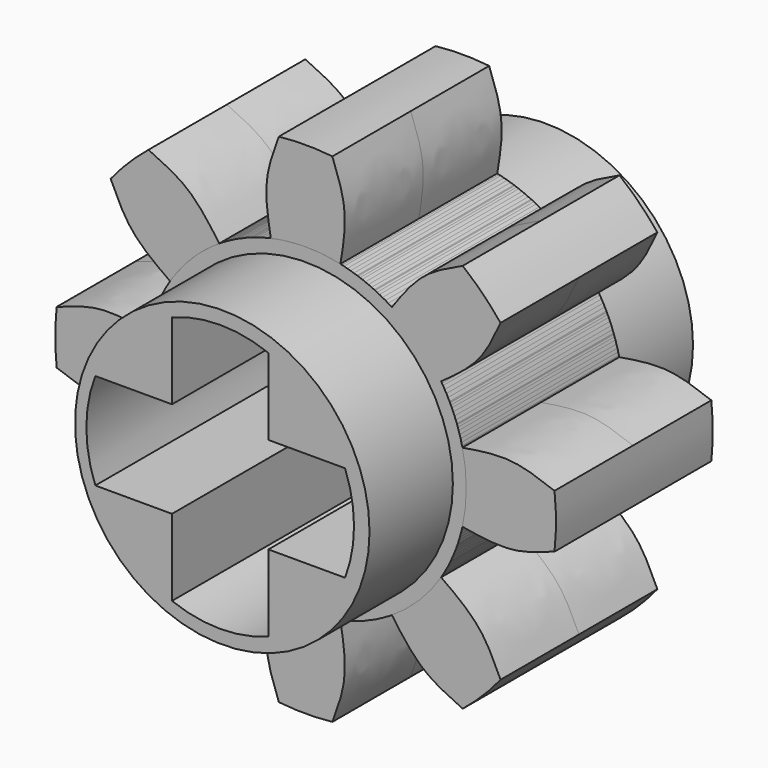
from build123d import *

# Parameters (mm, degrees)
F0_R     = 2.75
F1_DEPTH = 1.83
F2_COUNT = 8
F3_DEPTH = 3.775
F5_DEPTH = 7.551


with BuildPart() as f1:
    # F0 (on Front) → F1 (new body, symmetric)
    with BuildSketch(Plane.XZ):
        with BuildLine():
            add(Edge.make_bspline(
                [(0.5074052077, 1.7851034492), (0.6066605904, 1.5199564591), (0.8092476179, 0.97877331), (0.7086937606, 0.3740835981), (0.6574052077, 0.0656552486)],
                knots=[0, 0, 0, 0, 0.489939479, 1, 1, 1, 1], degree=3))
            ThreePointArc((0.5074052077, 1.7851034492), (0.0074052077, 1.8119183195), (-0.4925947923, 1.7851034492))
            add(Edge.make_bspline(
                [(-0.4925947923, 1.7851034492), (-0.591850175, 1.5199564591), (-0.7944372024, 0.97877331), (-0.6938833451, 0.3740835981), (-0.6425947923, 0.0656552486)],
                knots=[0, 0, 0, 0, 0.489939479, 1, 1, 1, 1], degree=3))
            ThreePointArc((-0.6425947923, 0.0656552486), (0.0074052077, 0.1369183195), (0.6574052077, 0.0656552486))
        make_face()
        with BuildLine():
            ThreePointArc((3.0074052077, -2.8630816805), (2.3472769991, -0.985583345), (0.6574052077, 0.0656552486))
            ThreePointArc((0.6574052077, 0.0656552486), (0.0074052077, 0.1369183195), (-0.6425947923, 0.0656552486))
            ThreePointArc((-0.6425947923, 0.0656552486), (-1.8700931278, -5.2029534719), (3.0074052077, -2.8630816805))
        make_face()
        with Locations((0.0074052077, -2.8630816805)):
            Circle(F0_R, mode=Mode.SUBTRACT)
    extrude(amount=F1_DEPTH, both=True)


with BuildPart() as f2_1:
    # F2: instance of F1
    add(f1.part.rotate(Axis((0.0074052077, 0, -2.8630816805), (0, -1, 0)), 1 * 360 / F2_COUNT))


with BuildPart() as f2_2:
    # F2: instance of F1
    add(f1.part.rotate(Axis((0.0074052077, 0, -2.8630816805), (0, -1, 0)), 2 * 360 / F2_COUNT))


with BuildPart() as f2_3:
    # F2: instance of F1
    add(f1.part.rotate(Axis((0.0074052077, 0, -2.8630816805), (0, -1, 0)), 3 * 360 / F2_COUNT))


with BuildPart() as f2_4:
    # F2: instance of F1
    add(f1.part.rotate(Axis((0.0074052077, 0, -2.8630816805), (0, -1, 0)), 4 * 360 / F2_COUNT))


with BuildPart() as f2_5:
    # F2: instance of F1
    add(f1.part.rotate(Axis((0.0074052077, 0, -2.8630816805), (0, -1, 0)), 5 * 360 / F2_COUNT))


with BuildPart() as f2_6:
    # F2: instance of F1
    add(f1.part.rotate(Axis((0.0074052077, 0, -2.8630816805), (0, -1, 0)), 6 * 360 / F2_COUNT))


with BuildPart() as f2_7:
    # F2: instance of F1
    add(f1.part.rotate(Axis((0.0074052077, 0, -2.8630816805), (0, -1, 0)), 7 * 360 / F2_COUNT))


with BuildPart() as f3:
    # F0 (on Front) → F3 (new body, symmetric)
    with BuildSketch(Plane.XZ):
        with Locations((0.0074052077, -2.8630816805)):
            Circle(F0_R)
    extrude(amount=F3_DEPTH, both=True)

    # F4 (on face) → F5 (cut, through all)
    with BuildSketch(Plane.XZ.offset(3.775)):
        with BuildLine():
            ThreePointArc((2.299921781, -3.767830224), (2.4253324656, -3.3255747812), (2.4676129211, -2.867830224))
            ThreePointArc((2.4676129211, -2.867830224), (2.4253324656, -2.4100856669), (2.299921781, -1.967830224))
            Line((2.299921781, -1.967830224), (0.8686129211, -1.967830224))
            Line((0.8686129211, -1.967830224), (0.8686129211, -0.5365213642))
            ThreePointArc((0.8686129211, -0.5365213642), (-0.0313870789, -0.368830224), (-0.9313870789, -0.5365213642))
            Line((-0.9313870789, -0.5365213642), (-0.9313870789, -1.967830224))
            Line((-0.9313870789, -1.967830224), (-2.3626959387, -1.967830224))
            ThreePointArc((-2.3626959387, -1.967830224), (-2.5303870789, -2.867830224), (-2.3626959387, -3.767830224))
            Line((-2.3626959387, -3.767830224), (-0.9313870789, -3.767830224))
            Line((-0.9313870789, -3.767830224), (-0.9313870789, -5.1991390839))
            ThreePointArc((-0.9313870789, -5.1991390839), (-0.0313870789, -5.366830224), (0.8686129211, -5.1991390839))
            Line((0.8686129211, -5.1991390839), (0.8686129211, -3.767830224))
            Line((0.8686129211, -3.767830224), (2.299921781, -3.767830224))
        make_face()
    extrude(amount=-F5_DEPTH, mode=Mode.SUBTRACT)


solid = Compound([f1.part, f2_1.part, f2_2.part, f2_3.part, f2_4.part, f2_5.part, f2_6.part, f2_7.part, f3.part])
